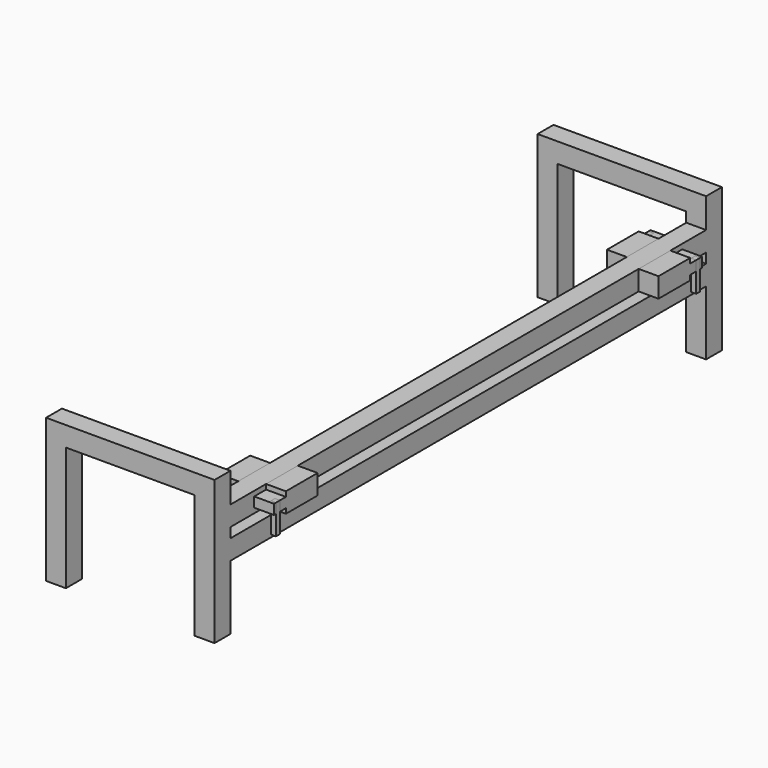
from build123d import *

# Parameters (mm, degrees)
F0_W      = 40
F0_H      = 250
F1_DEPTH  = 40
F2_W      = 40
F2_H      = 40
F3_DEPTH  = 600
F4_W      = 30
F4_H      = 20
F5_DEPTH  = 40
F6_W      = 10
F6_H      = 60
F7_DEPTH  = 10
F8_W      = 30
F8_H      = 20
F9_DEPTH  = 40
F10_W     = 10
F10_H     = 60
F11_DEPTH = 10


with BuildPart() as f1:
    # F0 (on Front) → F1 (new body)
    with BuildSketch(Plane.XZ):
        Polygon((170, 20), (-170, 20), (-170, -20), (-130, -20), (130, -20), (170, -20), align=None)
        with Locations((-150, -145)):
            Rectangle(F0_W, F0_H)
        with Locations((150, -145)):
            Rectangle(F0_W, F0_H)
    extrude(amount=F1_DEPTH)

    # F2 (on face) → F3 (join)
    with BuildSketch(Plane(origin=(0, 0, 0), x_dir=(-1, 0, 0), z_dir=(0, 1, 0))):
        with Locations((-150, -60)):
            Rectangle(F2_W, F2_H)
        with Locations((-150, -120)):
            Rectangle(F2_W, F2_H)
    extrude(amount=F3_DEPTH)

    # F13: F1 across face


with BuildPart() as f5:
    # F4 (on face) → F5 (new body)
    with BuildSketch(Plane.YZ.offset(170)):
        Polygon((170, -80), (170, -40), (90, -40), (90, -50), (90, -70), (90, -80), align=None)
        with Locations((75, -60)):
            Rectangle(F4_W, F4_H)
    extrude(amount=F5_DEPTH)


with BuildPart() as f7:
    # F6 (on face) → F7 (new body)
    with BuildSketch(Plane.YZ.offset(210)):
        with Locations((70, -80)):
            Rectangle(F6_W, F6_H)
    extrude(amount=-F7_DEPTH)


with BuildPart() as f9:
    # F8 (on face) → F9 (new body)
    with BuildSketch(Plane(origin=(130, 0, 0), x_dir=(0, -1, 0), z_dir=(-1, 0, 0))):
        Polygon((-70, -40), (-150, -40), (-150, -80), (-70, -80), (-70, -70), (-70, -50), align=None)
        with Locations((-55, -60)):
            Rectangle(F8_W, F8_H)
    extrude(amount=F9_DEPTH)


with BuildPart() as f11:
    # F10 (on face) → F11 (new body)
    with BuildSketch(Plane(origin=(90, 0, 0), x_dir=(0, -1, 0), z_dir=(-1, 0, 0))):
        with Locations((-50, -80)):
            Rectangle(F10_W, F10_H)
    extrude(amount=-F11_DEPTH)


with BuildPart() as f12_1:
    # F12: instance of F5
    add(f5.part.mirror(Plane(origin=(150, 600, -60), x_dir=(-1, 0, 0), z_dir=(0, 1, 0))))


with BuildPart() as f12_2:
    # F12: instance of F7
    add(f7.part.mirror(Plane(origin=(150, 600, -60), x_dir=(-1, 0, 0), z_dir=(0, 1, 0))))


with BuildPart() as f12_3:
    # F12: instance of F9
    add(f9.part.mirror(Plane(origin=(150, 600, -60), x_dir=(-1, 0, 0), z_dir=(0, 1, 0))))


with BuildPart() as f12_4:
    # F12: instance of F11
    add(f11.part.mirror(Plane(origin=(150, 600, -60), x_dir=(-1, 0, 0), z_dir=(0, 1, 0))))


with BuildPart() as f1_1:
    add(f1.part)
    add(f1.part.mirror(Plane(origin=(150, 600, -60), x_dir=(-1, 0, 0), z_dir=(0, 1, 0))))


solid = Compound([f5.part, f7.part, f9.part, f11.part, f12_1.part, f12_2.part, f12_3.part, f12_4.part, f1_1.part])
